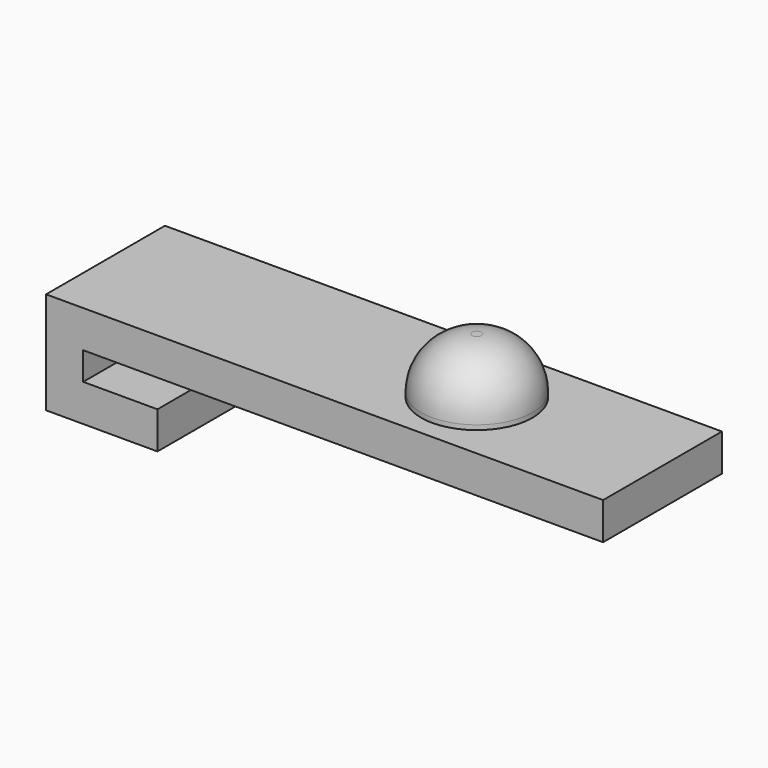
from build123d import *

# Parameters (mm, degrees)
PAD002_DEPTH = 8
SKETCH_R     = 3
PAD_DEPTH    = 3
FILLET_R     = 2.75


with BuildPart() as part:
    # Sketch002 → Pad002 (new body)
    with BuildSketch(Plane.XZ.offset(-2)):
        Polygon((20, 0.5), (20, 2.5), (-10, 2.5), (-10, 0.547361), (-10, -3), (-4, -3), (-4, -1), (-8, -1), (-8, 0.5), align=None)
    extrude(amount=PAD002_DEPTH)

    # Sketch (on Face2 of Pad002) → Pad (join)
    with BuildSketch(Plane(origin=(0, 2, 2.5), x_dir=(-1, 0, 0), z_dir=(0, 0, 1))):
        with Locations((-10, 4)):
            Circle(SKETCH_R)
    extrude(amount=PAD_DEPTH)

    # Fillet
    fillet_edges = [part.edges().sort_by_distance(p)[0] for p in [
        (13, -2, 5.5),
    ]]
    fillet(fillet_edges, radius=FILLET_R)


solid = part.part
